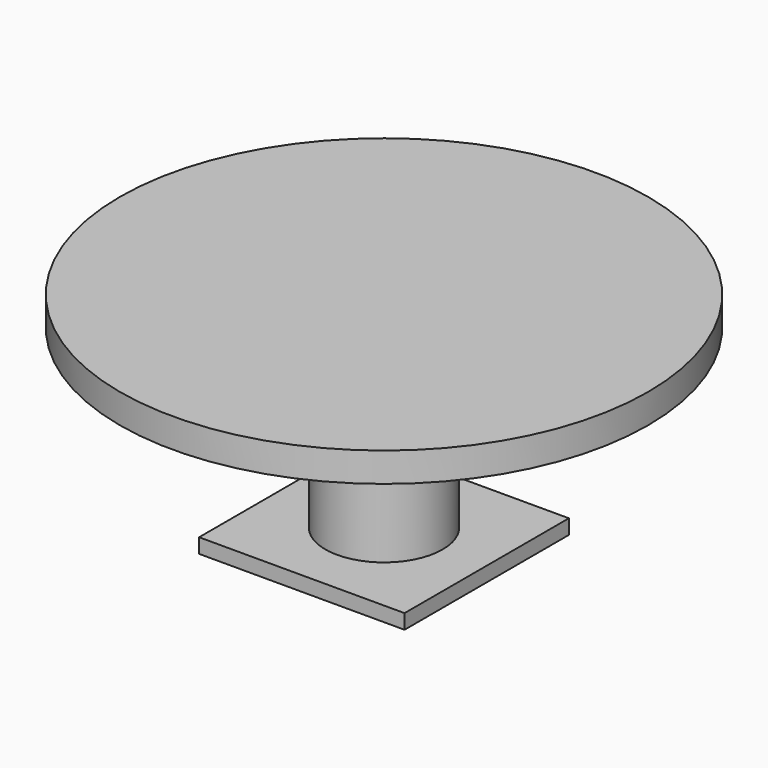
from build123d import *

# Parameters (mm, degrees)
F0_R     = 900
F0_W     = 700
F0_H     = 700
F0_R_2   = 200
F1_DEPTH = 100
F2_DEPTH = 600
F3_START = -600
F3_DEPTH = 50


with BuildPart() as f1:
    # F0 (on Top) → F1 (new body)
    with BuildSketch(Plane.XY):
        Circle(F0_R)
        Rectangle(F0_W, F0_H, mode=Mode.SUBTRACT)
        Rectangle(F0_W, F0_H)
        Circle(F0_R_2, mode=Mode.SUBTRACT)
        Circle(F0_R_2)
    extrude(amount=F1_DEPTH)

    # F0 (on Top) → F2 (join)
    with BuildSketch(Plane.XY):
        Circle(F0_R_2)
    extrude(amount=-F2_DEPTH)

    # F0 (on Top) → F3 (join)
    with BuildSketch(Plane.XY.offset(F3_START)):
        Rectangle(F0_W, F0_H)
        Circle(F0_R_2, mode=Mode.SUBTRACT)
        Circle(F0_R_2)
    extrude(amount=-F3_DEPTH)


solid = f1.part
